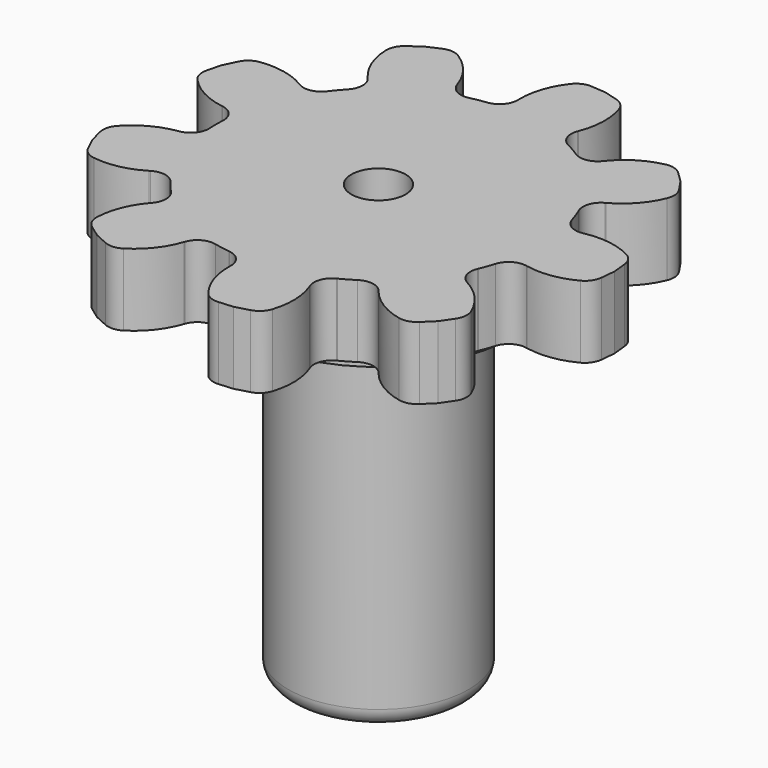
from build123d import *

# Parameters (mm, degrees)
F1_DEPTH  = 4
F2_COUNT  = 9
F4_R      = 1.5
F5_DEPTH  = 4
F6_R      = 5
F7_DEPTH  = 20
F8_DEPTH  = 4
F10_DEPTH = 6
F11_DEPTH = 2.5
F12_R     = 1
F13_R     = 7.5
F13_R_2   = 5
F14_DEPTH = 1


with BuildPart() as f1:
    # F0 (on Top) → F1 (new body)
    with BuildSketch(Plane.XY):
        with BuildLine():
            Line((8.3050784754, 3.467805), (0, 0))
            Line((0, 0), (8.3050784754, -3.467805))
            ThreePointArc((8.3050784754, -3.467805), (8.4643613218, -3.0585270007), (8.6034885901, -2.6419659499))
            ThreePointArc((8.6034885901, -2.6419659499), (9.047405848, -2.0765477235), (9.7559177746, -1.9550110935))
            Line((9.7559177746, -1.9550110935), (9.805066286, -1.9648600782))
            ThreePointArc((9.805066286, -1.9648600782), (11.1634165035, -2.0017278276), (12.4557678163, -1.5818437618))
            ThreePointArc((12.4557678163, -1.5818437618), (12.8193292248, -1.2554624828), (12.9848699654, -0.7957909694))
            Line((12.9848699654, -0.7957909694), (13.0638203653, 0))
            Line((13.0638203653, 0), (12.9848699654, 0.7957909694))
            ThreePointArc((12.9848699654, 0.7957909694), (12.8193292248, 1.2554624828), (12.4557678163, 1.5818437618))
            ThreePointArc((12.4557678163, 1.5818437618), (11.1634165035, 2.0017278276), (9.805066286, 1.9648600782))
            Line((9.805066286, 1.9648600782), (9.7559177746, 1.9550110935))
            ThreePointArc((9.7559177746, 1.9550110935), (9.047405848, 2.0765477235), (8.6034885901, 2.6419659499))
            ThreePointArc((8.6034885901, 2.6419659499), (8.4643613218, 3.0585270007), (8.3050784754, 3.467805))
        make_face()
    extrude(amount=F1_DEPTH)


with BuildPart() as f2_1:
    # F2: instance of F1
    add(f1.part.rotate(Axis((0, 0, 2), (0, 0, -1)), 1 * 360 / F2_COUNT))


with BuildPart() as f2_2:
    # F2: instance of F1
    add(f1.part.rotate(Axis((0, 0, 2), (0, 0, -1)), 2 * 360 / F2_COUNT))


with BuildPart() as f2_3:
    # F2: instance of F1
    add(f1.part.rotate(Axis((0, 0, 2), (0, 0, -1)), 3 * 360 / F2_COUNT))


with BuildPart() as f2_4:
    # F2: instance of F1
    add(f1.part.rotate(Axis((0, 0, 2), (0, 0, -1)), 4 * 360 / F2_COUNT))


with BuildPart() as f2_5:
    # F2: instance of F1
    add(f1.part.rotate(Axis((0, 0, 2), (0, 0, -1)), 5 * 360 / F2_COUNT))


with BuildPart() as f2_6:
    # F2: instance of F1
    add(f1.part.rotate(Axis((0, 0, 2), (0, 0, -1)), 6 * 360 / F2_COUNT))


with BuildPart() as f2_7:
    # F2: instance of F1
    add(f1.part.rotate(Axis((0, 0, 2), (0, 0, -1)), 7 * 360 / F2_COUNT))


with BuildPart() as f2_8:
    # F2: instance of F1
    add(f1.part.rotate(Axis((0, 0, 2), (0, 0, -1)), 8 * 360 / F2_COUNT))


with BuildPart() as f2_7_1:
    add(f2_7.part)

    # F3: union F2_6, F2_4, F2_5, F1, F2_1, F2_3, F2_2, F2_8
    add(f2_6.part)
    add(f2_4.part)
    add(f2_5.part)
    add(f1.part)
    add(f2_1.part)
    add(f2_3.part)
    add(f2_2.part)
    add(f2_8.part)

    # F4 (on face) → F5 (cut, through all)
    with BuildSketch(Plane.XY.offset(4)):
        Circle(F4_R)
    extrude(amount=-F5_DEPTH, mode=Mode.SUBTRACT)

    # F6 (on face) → F7 (join)
    with BuildSketch(Plane(origin=(0, 0, 0), x_dir=(1, 0, 0), z_dir=(0, 0, -1))):
        Circle(F6_R)
    extrude(amount=F7_DEPTH)

    # F8 (cut): a face of the model
    f8_faces = [f2_7_1.faces().sort_by_distance(p)[0] for p in [
        (0, 0, 0),
    ]]
    extrude(f8_faces, amount=-F8_DEPTH, mode=Mode.SUBTRACT)

    # F9 (on Front) → F10 (cut, up to face)
    with BuildSketch(Plane.XZ):
        Polygon((3, -12), (0, -12), (-3, -12), (-3, -18), (3, -18), align=None)
    extrude(amount=-F10_DEPTH, mode=Mode.SUBTRACT)

    # F11 (cut): a face of the model
    f11_faces = [f2_7_1.faces().sort_by_distance(p)[0] for p in [
        (0, 0, -15),
    ]]
    extrude(f11_faces, amount=-F11_DEPTH, mode=Mode.SUBTRACT)

    # F12
    f12_edges = [f2_7_1.edges().sort_by_distance(p)[0] for p in [
        (-5, 0, -20),
    ]]
    fillet(f12_edges, radius=F12_R)

    # F13 (on face) → F14 (join)
    with BuildSketch(Plane(origin=(0, 0, 0), x_dir=(1, 0, 0), z_dir=(0, 0, -1))):
        Circle(F13_R)
        Circle(F13_R_2, mode=Mode.SUBTRACT)
    extrude(amount=F14_DEPTH)


solid = f2_7_1.part
